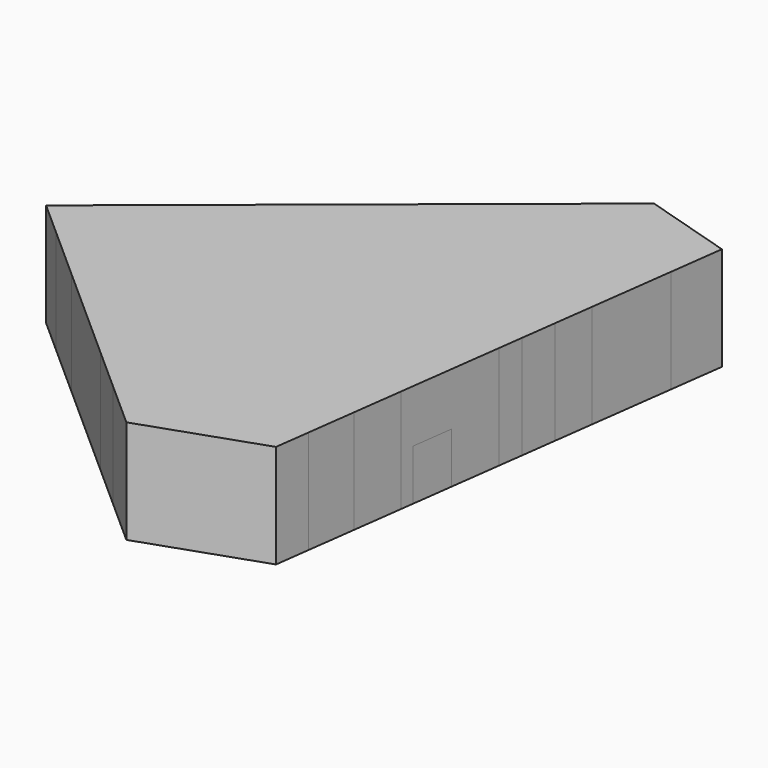
from build123d import *

# Parameters (mm, degrees)
F1_DEPTH = 25.4
F3_DEPTH = 12.446


with BuildPart() as f1:
    # F0 (on Top) → F1 (new body)
    with BuildSketch(Plane.XY):
        Polygon((-10.9079706873, -60.925591737), (0.2745396632, -70.8693638444), (29.0442313999, -60.925591737), (30.1725374462, -52.3670676145), align=None)
        Polygon((-21.5267124463, -51.4831369743), (-10.9079706873, -60.925591737), (30.1725374462, -52.3670676145), (31.7524198559, -40.3832075977), align=None)
        Polygon((-46.249977242, -29.4985822389), (-21.5267124463, -51.4831369743), (31.7524198559, -40.3832075977), (33.3817823364, -28.0240270901), (36.7852402851, -2.2078249604), (-59.6620724179, -17.5722066997), align=None)
        Polygon((-67.967928946, -10.1864282042), (-59.6620724179, -17.5722066997), (36.7852402851, -2.2078249604), (37.5770356191, 3.7981691482), (-60.5699678827, -4.1868189491), align=None)
        Polygon((-35.4187405533, 16.2103600804), (-60.5699678827, -4.1868189491), (37.5770356191, 3.7981691482), (38.7325722141, 12.5632447722), align=None)
        Polygon((-22.7260310203, 26.5039121732), (-35.4187405533, 16.2103600804), (38.7325722141, 12.5632447722), (40.0167355147, 22.303990753), align=None)
        Polygon((1.1167273822, 45.8399471636), (-22.7260310203, 26.5039121732), (40.0167355147, 22.303990753), (41.1537304905, 30.9284228918), (42.7521542511, 43.0529243591), align=None)
        Polygon((14.2736183781, 56.5099418163), (1.1167273822, 45.8399471636), (42.7521542511, 43.0529243591), (44.5262491703, 56.5099418163), (22.5158669055, 63.1942525506), align=None)
    extrude(amount=F1_DEPTH)

    # F2 (on face) → F3 (join)
    with BuildSketch(Plane(origin=(0, 0, 0), x_dir=(1, 0, 0), z_dir=(0, 0, -1))):
        Polygon((-5.6606122053, 65.5916761202), (29.5762278748, 56.8902462923), (29.0442313999, 60.925591737), (0.2745396632, 70.8693638444), align=None)
        Polygon((31.1177541978, 45.1973281655), (29.5762278748, 56.8902462923), (-5.6606122053, 65.5916761202), (-10.9079706873, 60.925591737), align=None)
        Polygon((32.7161779903, 33.0728264567), (31.1177541978, 45.1973281655), (-10.9079706873, 60.925591737), (-31.0928176625, 42.9767133499), (33.7950034008, 24.8896271106), align=None)
        Polygon((33.7950034008, 24.8896271106), (-31.0928176625, 42.9767133499), (-40.8061932377, 34.3393331834), (35.1373366924, 14.7076451082), align=None)
        Polygon((37.7069355989, -4.7834976536), (-67.967928946, 10.1864282042), (-43.0405799332, -10.0291896615), (38.3984971257, -10.0291896615), align=None)
        Polygon((38.3984971257, -10.0291896615), (-43.0405799332, -10.0291896615), (-23.2538356351, -26.0758724168), (39.8336470715, -20.9152125374), align=None)
        Polygon((39.8336470715, -20.9152125374), (-23.2538356351, -26.0758724168), (-4.9302105355, -40.93599263), (41.2526911519, -31.6790678174), align=None)
        Polygon((36.7852402851, 2.2078249604), (-50.7659296205, 25.4828827321), (-67.967928946, 10.1864282042), (37.7069355989, -4.7834976536), align=None)
        Polygon((35.1373366924, 14.7076451082), (-40.8061932377, 34.3393331834), (-50.7659296205, 25.4828827321), (36.7852402851, 2.2078249604), align=None)
        Polygon((41.2526911519, -31.6790678174), (-4.9302105355, -40.93599263), (6.8583674702, -50.4963108179), (43.1034975337, -45.7179636621), align=None)
        Polygon((43.1034975337, -45.7179636621), (6.8583674702, -50.4963108179), (22.5158669055, -63.1942525506), (44.5262491703, -56.5099418163), align=None)
    extrude(amount=-F3_DEPTH)


solid = f1.part
